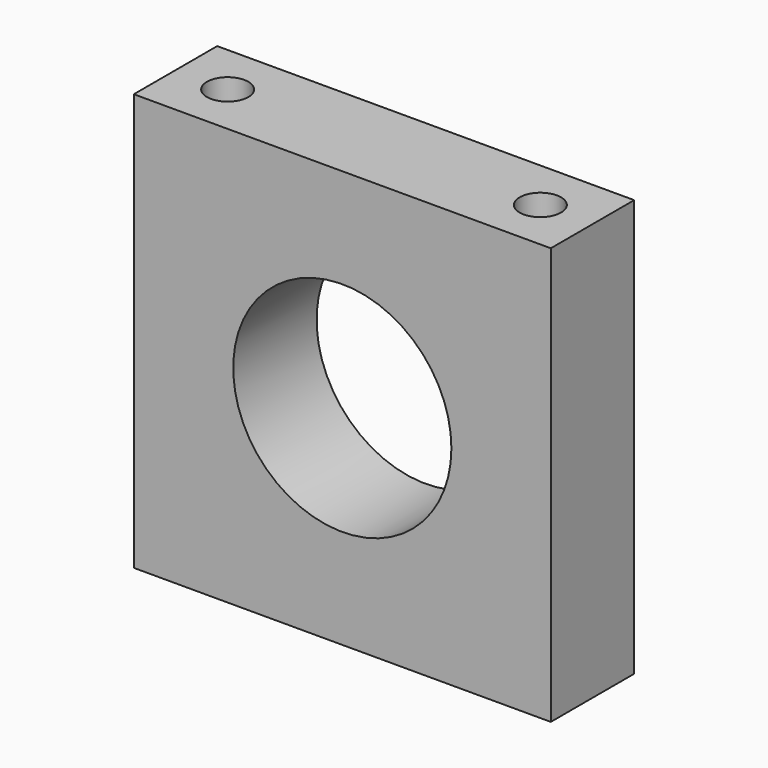
from build123d import *

# Parameters (mm, degrees)
F0_W     = 101.6
F0_H     = 101.6
F0_R     = 26.5811
F1_DEPTH = 25.4
F2_R     = 5.0419
F3_DEPTH = 101.601


with BuildPart() as f1:
    # F0 (on Front) → F1 (new body)
    with BuildSketch(Plane.XZ):
        Rectangle(F0_W, F0_H)
        Circle(F0_R, mode=Mode.SUBTRACT)
    extrude(amount=F1_DEPTH)

    # F2 (on face) → F3 (cut, through all)
    with BuildSketch(Plane(origin=(0, 0, -50.8), x_dir=(1, 0, 0), z_dir=(0, 0, -1))):
        with Locations((-38.1, 12.7)):
            Circle(F2_R)
        with Locations((38.1, 12.7)):
            Circle(F2_R)
    extrude(amount=-F3_DEPTH, mode=Mode.SUBTRACT)


solid = f1.part
